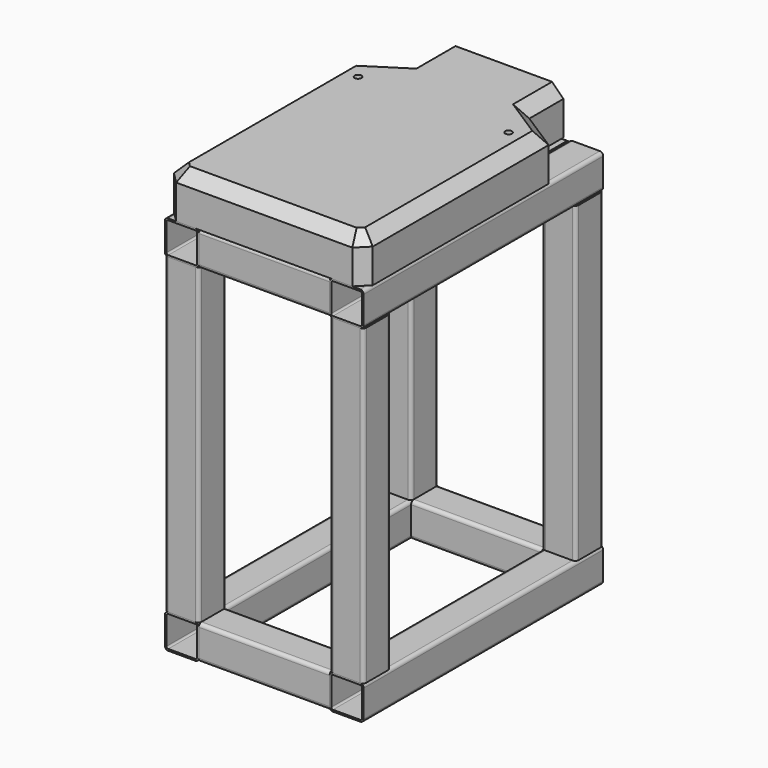
from build123d import *

# Parameters (mm, degrees)
F0_R      = 6
F1_DEPTH  = 80
F2_SIZE   = 20
F3_SIZE   = 20
F5_DEPTH  = 527
F8_DEPTH  = 230
F10_R     = 6
F14_DEPTH = 670.001
F11_R     = 6
F15_DEPTH = 670.001
F19_DEPTH = 550


with BuildPart() as f1:
    # F0 (on Top) → F1 (new body)
    with BuildSketch(Plane.XY):
        Polygon((-175, -263.5), (175, -263.5), (175, 143.5), (105, 188.5), (105, 263.5), (-105, 263.5), (-105, 188.5), (-175, 143.5), align=None)
        with Locations((-132.5, 108.5)):
            Circle(F0_R, mode=Mode.SUBTRACT)
        with Locations((132.5, 108.5)):
            Circle(F0_R, mode=Mode.SUBTRACT)
    extrude(amount=F1_DEPTH)

    # F2
    f2_edges = [f1.edges().sort_by_distance(p)[0] for p in [
        (-175, -263.5, 40),
        (175, -263.5, 40),
    ]]
    chamfer(f2_edges, length=F2_SIZE)

    # F3
    f3_edges = [f1.edges().sort_by_distance(p)[0] for p in [
        (-175, -50, 80),
        (0, -263.5, 80),
        (175, -50, 80),
        (165, -253.5, 80),
        (-165, -253.5, 80),
        (-140, 166, 80),
        (-105, 226, 80),
        (140, 166, 80),
        (105, 226, 80),
    ]]
    chamfer(f3_edges, length=F3_SIZE)


with BuildPart() as f5:
    # F4 (on face) → F5 (new body)
    with BuildSketch(Plane.XZ.offset(263.5)):
        with BuildLine():
            Line((169, 0), (121, 0))
            ThreePointArc((121, 0), (116.7573593129, -1.7573593129), (115, -6))
            Line((115, -6), (115, -54))
            ThreePointArc((115, -54), (116.7573593129, -58.2426406871), (121, -60))
            Line((121, -60), (169, -60))
            ThreePointArc((169, -60), (173.2426406871, -58.2426406871), (175, -54))
            Line((175, -54), (175, -6))
            ThreePointArc((175, -6), (173.2426406871, -1.7573593129), (169, 0))
        make_face()
        with BuildLine():
            ThreePointArc((169, -3), (171.1213203436, -3.8786796564), (172, -6))
            Line((172, -6), (172, -54))
            ThreePointArc((172, -54), (171.1213203436, -56.1213203436), (169, -57))
            Line((169, -57), (121, -57))
            ThreePointArc((121, -57), (118.8786796564, -56.1213203436), (118, -54))
            Line((118, -54), (118, -6))
            ThreePointArc((118, -6), (118.8786796564, -3.8786796564), (121, -3))
            Line((121, -3), (169, -3))
        make_face(mode=Mode.SUBTRACT)
    extrude(amount=-F5_DEPTH)


with BuildPart() as f6_1:
    # F6: copy of F5
    add(f5.part.moved(Location((-290, 0, 0))))


with BuildPart() as f8:
    # F7 (on face) → F8 (new body, through all)
    with BuildSketch(Plane.YZ.offset(-115)):
        with BuildLine():
            ThreePointArc((263.5, -6), (261.7426406871, -1.7573593129), (257.5, 0))
            Line((257.5, 0), (209.5, 0))
            ThreePointArc((209.5, 0), (205.2573593129, -1.7573593129), (203.5, -6))
            Line((203.5, -6), (203.5, -54))
            ThreePointArc((203.5, -54), (205.2573593129, -58.2426406871), (209.5, -60))
            Line((209.5, -60), (257.5, -60))
            ThreePointArc((257.5, -60), (261.7426406871, -58.2426406871), (263.5, -54))
            Line((263.5, -54), (263.5, -6))
        make_face()
        with BuildLine():
            ThreePointArc((260.5, -54), (259.6213203436, -56.1213203436), (257.5, -57))
            Line((257.5, -57), (209.5, -57))
            ThreePointArc((209.5, -57), (207.3786796564, -56.1213203436), (206.5, -54))
            Line((206.5, -54), (206.5, -6))
            ThreePointArc((206.5, -6), (207.3786796564, -3.8786796564), (209.5, -3))
            Line((209.5, -3), (257.5, -3))
            ThreePointArc((257.5, -3), (259.6213203436, -3.8786796564), (260.5, -6))
            Line((260.5, -6), (260.5, -54))
        make_face(mode=Mode.SUBTRACT)
    extrude(amount=F8_DEPTH)


with BuildPart() as f9_1:
    # F9: copy of F8
    add(f8.part.moved(Location((0, -467, 0))))


with BuildPart() as f12_1:
    # F12: copy of F5
    add(f5.part.moved(Location((0, 0, -610))))


with BuildPart() as f13_1:
    # F13: copy of F6_1
    add(f6_1.part.moved(Location((0, 0, -610))))


with BuildPart() as f5_1:
    add(f5.part)

    # F10 (on face) → F14 (cut, through all)
    with BuildSketch(Plane.XY):
        with Locations((132.5, 108.5)):
            Circle(F10_R)
    extrude(amount=-F14_DEPTH, mode=Mode.SUBTRACT)


with BuildPart() as f6_1_1:
    add(f6_1.part)

    # F11 (on face) → F15 (cut, through all)
    with BuildSketch(Plane.XY):
        with Locations((-132.5, 108.5)):
            Circle(F11_R)
    extrude(amount=-F15_DEPTH, mode=Mode.SUBTRACT)


with BuildPart() as f16_1:
    # F16: copy of F9_1
    add(f9_1.part.moved(Location((0, 0, -610))))


with BuildPart() as f17_1:
    # F17: copy of F8
    add(f8.part.moved(Location((0, 0, -610))))


with BuildPart() as f19:
    # F18 (on face) → F19 (new body, through all)
    with BuildSketch(Plane(origin=(0, 0, -60), x_dir=(1, 0, 0), z_dir=(0, 0, -1))):
        with BuildLine():
            Line((121, -263.5), (169, -263.5))
            ThreePointArc((169, -263.5), (173.2426406871, -261.7426406871), (175, -257.5))
            Line((175, -257.5), (175, -209.5))
            ThreePointArc((175, -209.5), (173.2426406871, -205.2573593129), (169, -203.5))
            Line((169, -203.5), (121, -203.5))
            ThreePointArc((121, -203.5), (116.7573593129, -205.2573593129), (115, -209.5))
            Line((115, -209.5), (115, -257.5))
            ThreePointArc((115, -257.5), (116.7573593129, -261.7426406871), (121, -263.5))
        make_face()
        with BuildLine():
            ThreePointArc((121, -260.5), (118.8786796564, -259.6213203436), (118, -257.5))
            Line((118, -257.5), (118, -209.5))
            ThreePointArc((118, -209.5), (118.8786796564, -207.3786796564), (121, -206.5))
            Line((121, -206.5), (169, -206.5))
            ThreePointArc((169, -206.5), (171.1213203436, -207.3786796564), (172, -209.5))
            Line((172, -209.5), (172, -257.5))
            ThreePointArc((172, -257.5), (171.1213203436, -259.6213203436), (169, -260.5))
            Line((169, -260.5), (121, -260.5))
        make_face(mode=Mode.SUBTRACT)
    extrude(amount=F19_DEPTH)


with BuildPart() as f20_1:
    # F20: copy of F19
    add(f19.part.moved(Location((-290, 0, 0))))


with BuildPart() as f21_1:
    # F21: copy of F19
    add(f19.part.moved(Location((0, -467, 0))))


with BuildPart() as f22_1:
    # F22: copy of F21_1
    add(f21_1.part.moved(Location((-290, 0, 0))))


solid = Compound([f1.part, f8.part, f9_1.part, f12_1.part, f13_1.part, f5_1.part, f6_1_1.part, f16_1.part, f17_1.part, f19.part, f20_1.part, f21_1.part, f22_1.part])
